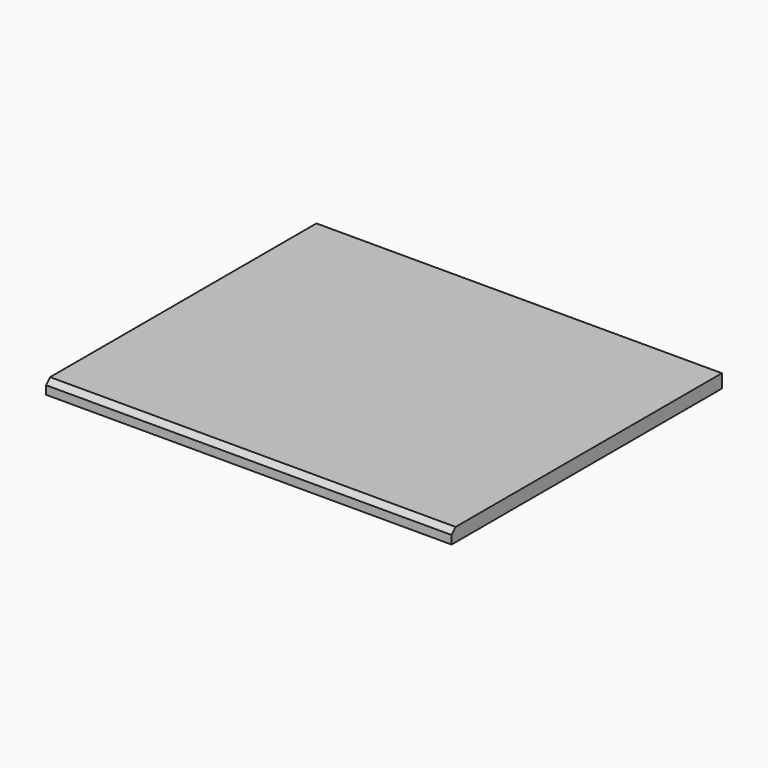
from build123d import *

# Parameters (mm, degrees)
F0_W     = 635
F0_H     = 25.4
F1_DEPTH = 381
F2_SIZE  = 9.525


with BuildPart() as f1:
    # F0 (on Right) → F1 (new body, symmetric)
    with BuildSketch(Plane.YZ):
        with Locations((-317.5, -12.7)):
            Rectangle(F0_W, F0_H)
    extrude(amount=F1_DEPTH, both=True)

    # F2
    f2_edges = [f1.edges().sort_by_distance(p)[0] for p in [
        (0, -635, 0),
    ]]
    chamfer(f2_edges, length=F2_SIZE)


solid = f1.part
